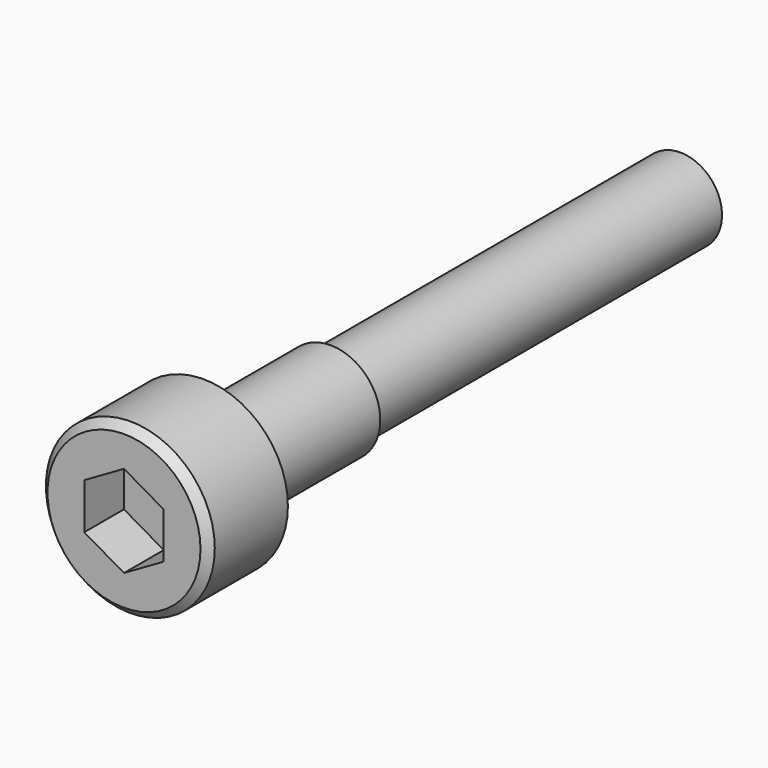
from build123d import *

# Parameters (mm, degrees)
F0_R     = 4.25
F1_DEPTH = 5
F2_R     = 2.5
F3_DEPTH = 30
F4_R     = 2.5
F4_R_2   = 2.1
F5_DEPTH = 22
F7_DEPTH = 2.5
F8_SIZE  = 0.4


with BuildPart() as f1:
    # F0 (on Front) → F1 (new body)
    with BuildSketch(Plane.XZ):
        Circle(F0_R)
    extrude(amount=F1_DEPTH)

    # F2 (on face) → F3 (join)
    with BuildSketch(Plane(origin=(0, 0, 0), x_dir=(-1, 0, 0), z_dir=(0, 1, 0))):
        Circle(F2_R)
    extrude(amount=F3_DEPTH)

    # F4 (on face) → F5 (cut)
    with BuildSketch(Plane(origin=(0, 30, 0), x_dir=(-1, 0, 0), z_dir=(0, 1, 0))):
        Circle(F4_R)
        Circle(F4_R_2, mode=Mode.SUBTRACT)
    extrude(amount=-F5_DEPTH, mode=Mode.SUBTRACT)

    # F6 (on face) → F7 (cut)
    with BuildSketch(Plane.XZ.offset(5)):
        Polygon((0, -2.309401), (2, -1.154701), (2, 1.154701), (0, 2.309401), (-2, 1.154701), (-2, -1.154701), align=None)
    extrude(amount=-F7_DEPTH, mode=Mode.SUBTRACT)

    # F8
    f8_edges = [f1.edges().sort_by_distance(p)[0] for p in [
        (-4.25, -5, 0),
    ]]
    chamfer(f8_edges, length=F8_SIZE)


solid = f1.part
